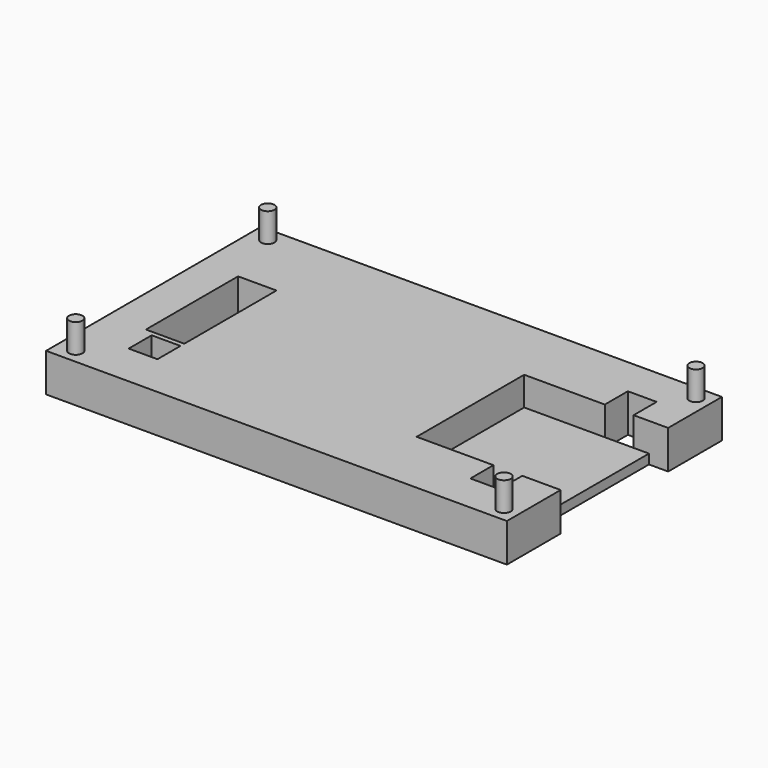
from build123d import *

# Parameters (mm, degrees)
SKETCH_W               = 48
SKETCH_H               = 28
PAD_DEPTH              = 4
SKETCH001_W            = 14
SKETCH001_H            = 3
POCKET_DEPTH           = 15
SKETCH002_W            = 4
SKETCH002_H            = 12
SKETCH002_W_2          = 3
SKETCH002_H_2          = 3
POCKET001_DEPTH        = 4.001
SKETCH003_R            = 0.7
PAD001_DEPTH           = 3
FUSION_PLACEMENT_ANGLE = 180
SKETCH004_W            = 14
SKETCH004_H            = 1.055855
POCKET002_DEPTH        = 2


with BuildPart() as pocket001:
    # Sketch → Pad (new body)
    with BuildSketch(Plane.XY):
        with Locations((24, 14)):
            Rectangle(SKETCH_W, SKETCH_H)
    extrude(amount=PAD_DEPTH)

    # Sketch001 → Pocket (cut)
    with BuildSketch(Plane(origin=(0, 0, 0), x_dir=(0, -1, 0), z_dir=(-1, 0, 0))):
        with Locations((-14, 1.5)):
            Rectangle(SKETCH001_W, SKETCH001_H)
    extrude(amount=-POCKET_DEPTH, mode=Mode.SUBTRACT)

    # Sketch002 → Pocket001 (cut, through all)
    with BuildSketch(Plane.XY.offset(4)):
        with Locations((42, 14)):
            Rectangle(SKETCH002_W, SKETCH002_H)
        with Locations((41.5, 6)):
            Rectangle(SKETCH002_W_2, SKETCH002_H_2)
        with Locations((5.5, 5.5)):
            Rectangle(SKETCH002_W_2, SKETCH002_H_2)
        with Locations((5.098741, 22.5)):
            Rectangle(SKETCH002_W_2, SKETCH002_H_2)
    extrude(amount=-POCKET001_DEPTH, mode=Mode.SUBTRACT)


with BuildPart() as pocket002:
    # Pad001 base: copy of Pocket001
    add(pocket001.part)

    # Sketch003 → Pad001 (new body)
    with BuildSketch(Plane(origin=(0, 0, 0), x_dir=(1, 0, 0), z_dir=(0, 0, -1))):
        with Locations((1.5, -1.5)):
            Circle(SKETCH003_R)
        with Locations((1.5, -26.5)):
            Circle(SKETCH003_R)
        with Locations((46.109886, -26.5)):
            Circle(SKETCH003_R)
        with Locations((46.109886, -1.5)):
            Circle(SKETCH003_R)
    extrude(amount=PAD001_DEPTH)

    # Fusion: union Pocket001
    add(pocket001.part)


with BuildPart() as pocket002_1:
    # Fusion placement: moved
    add(pocket002.part.rotate(Axis((0, 0, 0), (0, 1, 0)), FUSION_PLACEMENT_ANGLE))

    # Sketch004 → Pocket002 (cut)
    with BuildSketch(Plane(origin=(0, 0, 0), x_dir=(0, -1, 0), z_dir=(1, 0, 0))):
        with Locations((-14, 3.486054)):
            Rectangle(SKETCH004_W, SKETCH004_H)
    extrude(amount=-POCKET002_DEPTH, mode=Mode.SUBTRACT)


solid = pocket002_1.part
